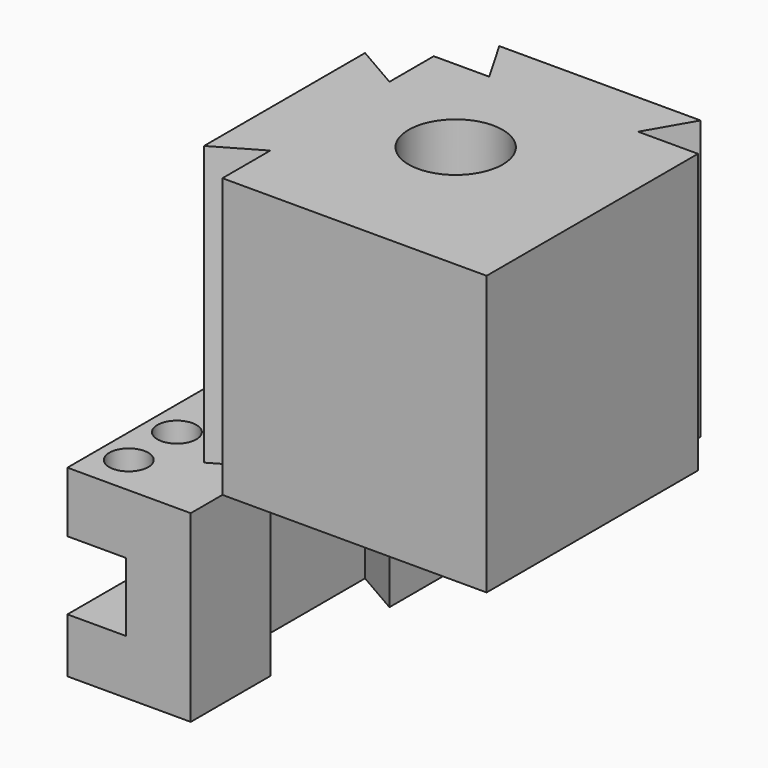
from build123d import *

# Parameters (mm, degrees)
F0_R     = 9.65
F1_DEPTH = 57.2
F2_R     = 4
F2_R_2   = 5
F3_DEPTH = 37.7
F4_W     = 12
F4_H     = 14.1
F5_DEPTH = 71.631642
F6_DEPTH = 10
F7_DEPTH = 12.4


with BuildPart() as f1:
    # F0 (on Top) → F1 (new body)
    with BuildSketch(Plane.XY):
        Polygon((-22.45, -31.75), (31.75, -31.75), (31.75, 22.45), (19.480642, 22.45), (24.85, 31.75), (-16.45, 31.75), (-11.080642, 22.45), (-22.45, 22.45), (-22.45, 11.080642), (-31.75, 16.45), (-31.75, -24.85), (-22.45, -19.480642), align=None)
        Circle(F0_R, mode=Mode.SUBTRACT)
    extrude(amount=F1_DEPTH)


with BuildPart() as f3:
    # F2 (on Top) → F3 (new body)
    with BuildSketch(Plane.XY):
        Polygon((-31.75, 16.45), (-22.45, 11.080642), (-22.45, 22.45), (-22.45, 31.480642), (-47.75, 31.480642), (-47.75, -39.880642), (-22.45, -39.880642), (-22.45, -31.75), (-22.45, -19.480642), (-31.75, -24.85), align=None)
        with Locations((-41.75, -31.652287)):
            Circle(F2_R, mode=Mode.SUBTRACT)
        with Locations((-41.75, -19.300643)):
            Circle(F2_R, mode=Mode.SUBTRACT)
        with Locations((-41.75, 11.270437)):
            Circle(F2_R, mode=Mode.SUBTRACT)
        with Locations((-39.25, -4.2)):
            Circle(F2_R_2, mode=Mode.SUBTRACT)
        with Locations((-41.75, 23.148505)):
            Circle(F2_R, mode=Mode.SUBTRACT)
        with Locations((-41.75, -31.652287)):
            Circle(F2_R)
        with Locations((-41.75, -19.300643)):
            Circle(F2_R)
        with Locations((-39.25, -4.2)):
            Circle(F2_R_2)
        with Locations((-41.75, 11.270437)):
            Circle(F2_R)
        with Locations((-41.75, 23.148505)):
            Circle(F2_R)
    extrude(amount=-F3_DEPTH)

    # F4 (on face) → F5 (cut, through all)
    with BuildSketch(Plane.XZ.offset(39.880642)):
        with Locations((-41.75, -19.45)):
            Rectangle(F4_W, F4_H)
    extrude(amount=-F5_DEPTH, mode=Mode.SUBTRACT)

    # F2 (on Top) → F6 (cut)
    with BuildSketch(Plane.XY):
        with Locations((-39.25, -4.2)):
            Circle(F2_R_2)
    extrude(amount=-F6_DEPTH, mode=Mode.SUBTRACT)

    # F2 (on Top) → F7 (cut, through all)
    with BuildSketch(Plane.XY):
        with Locations((-41.75, 23.148505)):
            Circle(F2_R)
        with Locations((-41.75, 11.270437)):
            Circle(F2_R)
        with Locations((-41.75, -19.300643)):
            Circle(F2_R)
        with Locations((-41.75, -31.652287)):
            Circle(F2_R)
    extrude(amount=-F7_DEPTH, mode=Mode.SUBTRACT)


solid = Compound([f1.part, f3.part])
